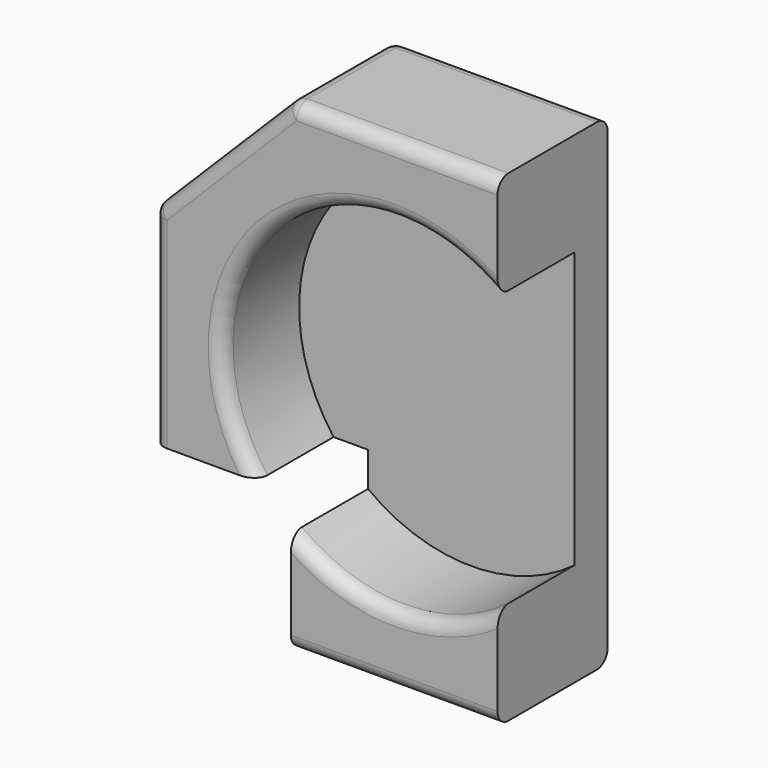
from build123d import *

# Parameters (mm, degrees)
F1_DEPTH = 1
F3_DEPTH = 0.7
F4_R     = 0.1


with BuildPart() as f1:
    # F0 (on Front) → F1 (new body)
    with BuildSketch(Plane.XZ):
        with BuildLine():
            Line((-1.75, -0.75), (-1, -0.75))
            ThreePointArc((-1, -0.75), (-0.8838834765, 0.8838834765), (0.75, 1))
            Line((0.75, 1), (0.75, 1.75))
            Line((0.75, 1.75), (-0.75, 1.75))
            Line((-0.75, 1.75), (-1.75, 0.75))
            Line((-1.75, 0.75), (-1.75, -0.75))
        make_face()
        with BuildLine():
            ThreePointArc((0.75, -1), (0, -1.25), (-0.75, -1))
            Line((-0.75, -1), (-0.75, -1.75))
            Line((-0.75, -1.75), (0.75, -1.75))
            Line((0.75, -1.75), (0.75, -1))
        make_face()
        with BuildLine():
            Line((-1, -0.75), (-0.75, -0.75))
            Line((-0.75, -0.75), (-0.75, -1))
            ThreePointArc((-0.75, -1), (0, -1.25), (0.75, -1))
            Line((0.75, -1), (0.75, 1))
            ThreePointArc((0.75, 1), (-0.8838834765, 0.8838834765), (-1, -0.75))
        make_face()
    extrude(amount=F1_DEPTH)

    # F2 (on face) → F3 (cut)
    with BuildSketch(Plane.XZ.offset(1)):
        with BuildLine():
            ThreePointArc((0.75, -1), (1.1180339887, -0.5590169944), (1.25, 0))
            ThreePointArc((1.25, 0), (1.1180339887, 0.5590169944), (0.75, 1))
            Line((0.75, 1), (0.75, -1))
        make_face()
        with BuildLine():
            Line((-0.75, -0.75), (-1, -0.75))
            ThreePointArc((-1, -0.75), (-0.8838834765, -0.8838834765), (-0.75, -1))
            Line((-0.75, -1), (-0.75, -0.75))
        make_face()
        with BuildLine():
            Line((0.75, -1), (0.75, 1))
            ThreePointArc((0.75, 1), (-0.8838834765, 0.8838834765), (-1, -0.75))
            Line((-1, -0.75), (-0.75, -0.75))
            Line((-0.75, -0.75), (-0.75, -1))
            ThreePointArc((-0.75, -1), (0, -1.25), (0.75, -1))
        make_face()
    extrude(amount=-F3_DEPTH, mode=Mode.SUBTRACT)

    # F4
    f4_edges = [f1.edges().sort_by_distance(p)[0] for p in [
        (0, 0, 1.75),
        (0, -1, 1.75),
        (-0.75, -0.5, 1.75),
        (-0.883883, -1, 0.883883),
        (0, -1, -1.25),
        (-1.25, -1, 1.25),
        (-1.25, 0, 1.25),
        (-1.75, -1, 0),
        (-1.75, 0, 0),
        (-1.75, -0.5, 0.75),
        (0, -1, -1.75),
        (0, 0, -1.75),
    ]]
    fillet(f4_edges, radius=F4_R)


solid = f1.part
